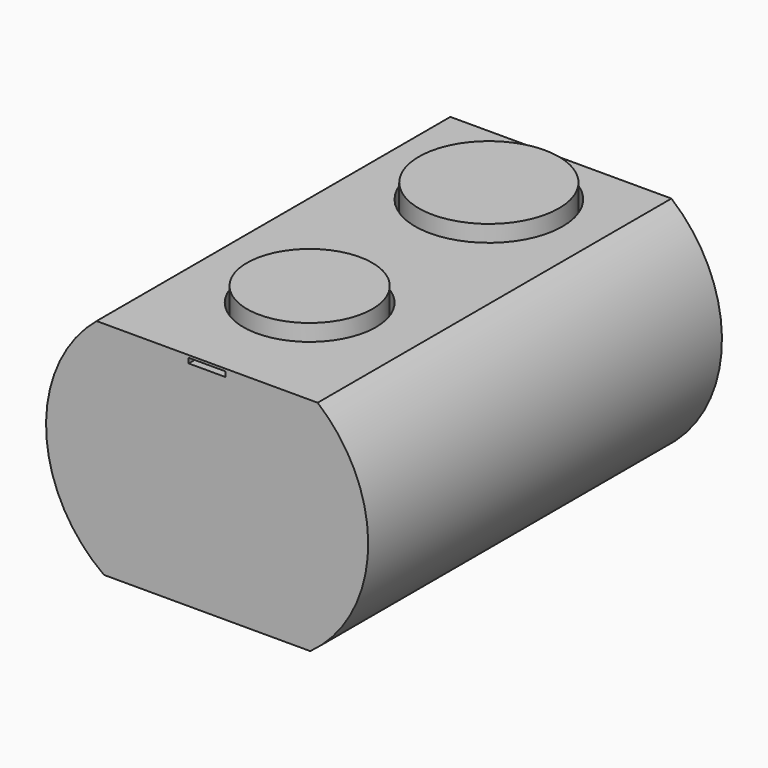
from build123d import *

# Parameters (mm, degrees)
F1_DEPTH  = 152.4
F2_R      = 35.861849
F2_R_2    = 34.861464
F3_DEPTH  = 7.62
F4_R      = 25.4
F5_DEPTH  = 7.62
F6_R      = 24.13
F7_DEPTH  = 12.7
F8_R      = 22.86
F9_DEPTH  = 7.62
F10_R     = 21.59
F11_DEPTH = 12.7
F12_W     = 12.7
F12_H     = 1.719565
F13_DEPTH = 12.7


with BuildPart() as f1:
    # F0 (on Front) → F1 (new body)
    with BuildSketch(Plane.XZ):
        with BuildLine():
            Line((-35.56, 0), (0, 0))
            Line((0, 0), (0, 76.2))
            Line((0, 76.2), (-38.1, 76.2))
            ThreePointArc((-38.1, 76.2), (-55.485641, 37.478145), (-35.56, 0))
        make_face()
        with BuildLine():
            Line((0, 76.2), (0, 0))
            Line((0, 0), (35.56, 0))
            ThreePointArc((35.56, 0), (55.485641, 37.478145), (38.1, 76.2))
            Line((38.1, 76.2), (0, 76.2))
        make_face()
    extrude(amount=F1_DEPTH)

    # F2 (on face) → F3 (cut)
    with BuildSketch(Plane.XY.offset(76.2)):
        with Locations((0, -520.644426)):
            Circle(F2_R)
        with Locations((0, -297.697842)):
            Circle(F2_R_2)
    extrude(amount=-F3_DEPTH, mode=Mode.SUBTRACT)

    # F4 (on face) → F5 (cut)
    with BuildSketch(Plane.XY.offset(76.2)):
        with Locations((0, -31.021852)):
            Circle(F4_R)
    extrude(amount=-F5_DEPTH, mode=Mode.SUBTRACT)

    # F6 (on face) → F7 (join)
    with BuildSketch(Plane.XY.offset(68.58)):
        with Locations((0, -31.021852)):
            Circle(F6_R)
    extrude(amount=F7_DEPTH)

    # F8 (on face) → F9 (cut)
    with BuildSketch(Plane.XY.offset(76.2)):
        with Locations((0, -108.224646)):
            Circle(F8_R)
    extrude(amount=-F9_DEPTH, mode=Mode.SUBTRACT)

    # F10 (on face) → F11 (join)
    with BuildSketch(Plane.XY.offset(68.58)):
        with Locations((0, -108.224646)):
            Circle(F10_R)
    extrude(amount=F11_DEPTH)

    # F12 (on face) → F13 (cut)
    with BuildSketch(Plane.XZ.offset(152.4)):
        with Locations((0, 74.519782)):
            Rectangle(F12_W, F12_H)
    extrude(amount=-F13_DEPTH, mode=Mode.SUBTRACT)


solid = f1.part
